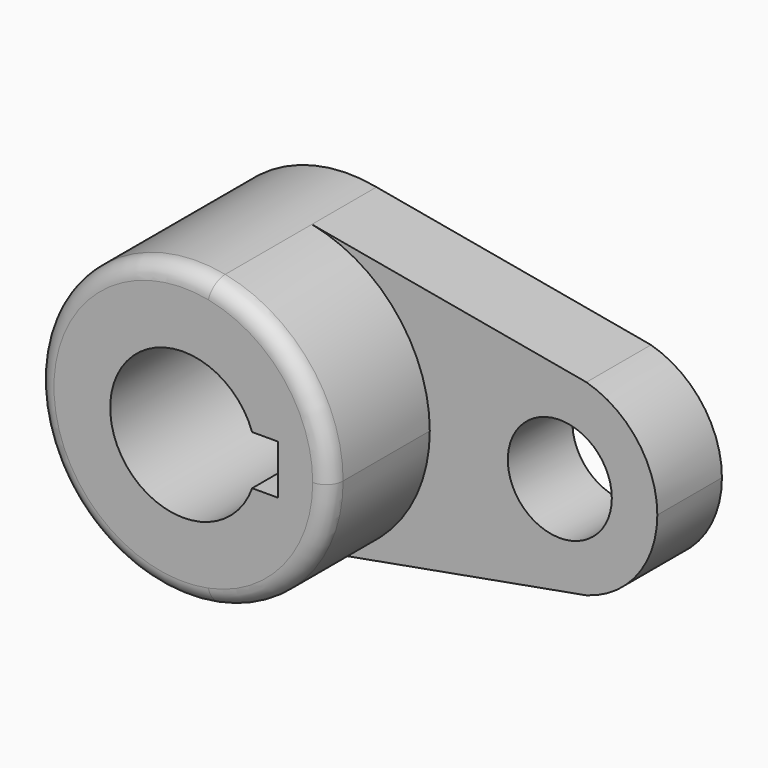
from build123d import *

# Parameters (mm, degrees)
F1_DEPTH = 40.2336
F0_R     = 10.16
F2_DEPTH = 15.7734
F3_R     = 3.302


with BuildPart() as f1:
    # F0 (on Front) → F1 (new body)
    with BuildSketch(Plane.XZ):
        with BuildLine():
            ThreePointArc((5.543906, -28.032048), (22.07881, -18.139922), (28.575, 0))
            ThreePointArc((28.575, 0), (22.07881, 18.139922), (5.543906, 28.032048))
            ThreePointArc((5.543906, 28.032048), (-28.575, 0), (5.543906, -28.032048))
        make_face()
        with BuildLine():
            ThreePointArc((13.447765, -4.826), (-14.2875, 0), (13.447765, 4.826))
            Line((13.447765, 4.826), (18.5293, 4.826))
            Line((18.5293, 4.826), (18.5293, -4.826))
            Line((18.5293, -4.826), (13.447765, -4.826))
        make_face(mode=Mode.SUBTRACT)
    extrude(amount=F1_DEPTH)

    # F0 (on Front) → F2 (join)
    with BuildSketch(Plane.XZ):
        with BuildLine():
            ThreePointArc((5.543906, 28.032048), (22.07881, 18.139922), (28.575, 0))
            ThreePointArc((28.575, 0), (22.07881, -18.139922), (5.543906, -28.032048))
            Line((5.543906, -28.032048), (59.169933, -18.327989))
            ThreePointArc((59.169933, -18.327989), (69.171479, -11.487798), (73.025, 0))
            ThreePointArc((73.025, 0), (69.171479, 11.487798), (59.169933, 18.327989))
            Line((59.169933, 18.327989), (5.543906, 28.032048))
        make_face()
        with Locations((53.975, 0)):
            Circle(F0_R, mode=Mode.SUBTRACT)
    extrude(amount=F2_DEPTH)

    # F3
    f3_edges = [f1.edges().sort_by_distance(p)[0] for p in [
        (-5.543906, -40.2336, 28.032048),
    ]]
    fillet(f3_edges, radius=F3_R)


solid = f1.part
